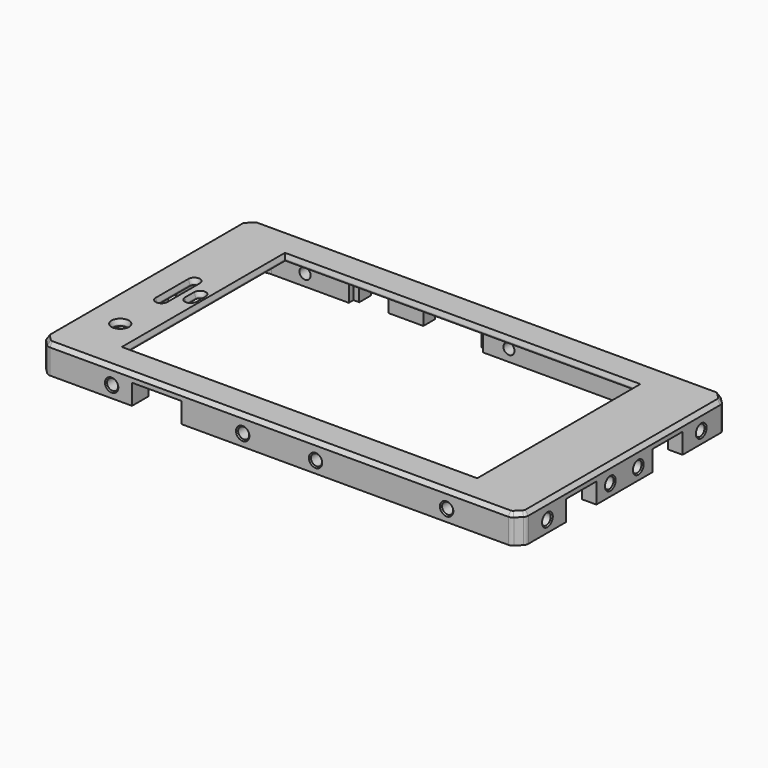
from build123d import *

# Parameters (mm, degrees)
SKETCH_W         = 165
SKETCH_H         = 90
PAD_DEPTH        = 10
SKETCH001_W      = 121
SKETCH001_H      = 69
POCKET_DEPTH     = 10.001
SKETCH002_W      = 155
SKETCH002_H      = 76
POCKET001_DEPTH  = 8
SKETCH003_R      = 2.5
POCKET002_DEPTH  = 10.001
SKETCH005_W      = 46
SKETCH005_H      = 5.5
POCKET003_DEPTH  = 8
SKETCH007_W      = 10
SKETCH007_H      = 7
SKETCH007_W_2    = 20
POCKET005_DEPTH  = 7
SKETCH008_W      = 13
SKETCH008_H      = 7
POCKET006_DEPTH  = 5
SKETCH009_W      = 17
SKETCH009_H      = 7
POCKET007_DEPTH  = 7
SKETCH010_W      = 8
SKETCH010_H      = 8
POCKET008_DEPTH  = 7
SKETCH015_R      = 1.9
POCKET010_DEPTH  = 8
FILLET004_R      = 8.5
CHAMFER003_SIZE  = 3
CHAMFER004_SIZE2 = 1.6
CHAMFER004_SIZE  = 0.5
FILLET005_R      = 2
CHAMFER005_SIZE2 = 1.5
CHAMFER005_SIZE  = 1
SKETCH026_R      = 1.9
POCKET018_DEPTH  = 165.001
SKETCH027_R      = 1.9
POCKET019_DEPTH  = 90.001
CHAMFER009_SIZE  = 0.4
CHAMFER027_SIZE  = 1


with BuildPart() as part:
    # Sketch → Pad (new body)
    with BuildSketch(Plane.XY):
        with Locations((77.5, 38)):
            Rectangle(SKETCH_W, SKETCH_H)
    extrude(amount=PAD_DEPTH)

    # Sketch001 (on DatumPlane) → Pocket (cut, through all)
    with BuildSketch(Plane.XY.offset(10)):
        with Locations((76.5, 38)):
            Rectangle(SKETCH001_W, SKETCH001_H)
    extrude(amount=-POCKET_DEPTH, mode=Mode.SUBTRACT)

    # Sketch002 (on DatumPlane) → Pocket001 (cut)
    with BuildSketch(Plane.XY):
        with Locations((77.5, 38)):
            Rectangle(SKETCH002_W, SKETCH002_H)
    extrude(amount=POCKET001_DEPTH, mode=Mode.SUBTRACT)

    # Sketch003 (on DatumPlane) → Pocket002 (cut, through all)
    with BuildSketch(Plane.XY.offset(10)):
        with Locations((6.75, 13.25)):
            Circle(SKETCH003_R)
        with BuildLine():
            ThreePointArc((8.25, 45), (6.75, 46.5), (5.25, 45))
            Line((5.25, 45), (5.25, 31))
            ThreePointArc((5.25, 31), (6.75, 29.5), (8.25, 31))
            Line((8.25, 45), (8.25, 31))
        make_face()
        with BuildLine():
            ThreePointArc((14.25, 40), (12.75, 41.5), (11.25, 40))
            Line((11.25, 40), (11.25, 36))
            ThreePointArc((11.25, 36), (12.75, 34.5), (14.25, 36))
            Line((14.25, 40), (14.25, 36))
        make_face()
    extrude(amount=-POCKET002_DEPTH, mode=Mode.SUBTRACT)

    # Sketch005 (on Face5 of Pocket002) → Pocket003 (cut)
    with BuildSketch(Plane.XY):
        with Locations((58, 75.25)):
            Rectangle(SKETCH005_W, SKETCH005_H)
    extrude(amount=POCKET003_DEPTH, mode=Mode.SUBTRACT)

    # Sketch007 (on DatumPlane) → Pocket005 (cut)
    with BuildSketch(Plane.XZ.offset(-83)):
        with Locations((42, 3.5)):
            Rectangle(SKETCH007_W, SKETCH007_H)
        with Locations((69, 3.5)):
            Rectangle(SKETCH007_W_2, SKETCH007_H)
    extrude(amount=POCKET005_DEPTH, mode=Mode.SUBTRACT)

    # Sketch008 (on DatumPlane) → Pocket006 (cut)
    with BuildSketch(Plane.YZ.offset(160)):
        with Locations((19.5, 3.5)):
            Rectangle(SKETCH008_W, SKETCH008_H)
        with Locations((56.5, 3.5)):
            Rectangle(SKETCH008_W, SKETCH008_H)
    extrude(amount=-POCKET006_DEPTH, mode=Mode.SUBTRACT)

    # Sketch009 (on DatumPlane) → Pocket007 (cut)
    with BuildSketch(Plane.XZ.offset(7)):
        with Locations((35.5, 3.5)):
            Rectangle(SKETCH009_W, SKETCH009_H)
    extrude(amount=-POCKET007_DEPTH, mode=Mode.SUBTRACT)

    # Sketch010 (on DatumPlane) → Pocket008 (cut)
    with BuildSketch(Plane.YZ.offset(-7)):
        with Locations((22, 4)):
            Rectangle(SKETCH010_W, SKETCH010_H)
    extrude(amount=POCKET008_DEPTH, mode=Mode.SUBTRACT)

    # Sketch015 (on DatumPlane) → Pocket010 (cut)
    with BuildSketch(Plane.XY):
        with Locations((0, -2)):
            Circle(SKETCH015_R)
        with Locations((0, 78)):
            Circle(SKETCH015_R)
        with Locations((155, 78)):
            Circle(SKETCH015_R)
        with Locations((155, -2)):
            Circle(SKETCH015_R)
    extrude(amount=POCKET010_DEPTH, mode=Mode.SUBTRACT)

    # Fillet004
    fillet004_edges = [part.edges().sort_by_distance(p)[0] for p in [
        (0, 0, 4),
        (0, 76, 4),
        (155, 0, 4),
        (155, 76, 4),
    ]]
    fillet(fillet004_edges, radius=FILLET004_R)

    # Chamfer003
    chamfer003_edges = [part.edges().sort_by_distance(p)[0] for p in [
        (-5, 83, 5),
        (-5, -7, 5),
        (160, -7, 5),
        (160, 83, 5),
    ]]
    chamfer(chamfer003_edges, length=CHAMFER003_SIZE)

    # Chamfer004
    chamfer004_edges = [part.edges().sort_by_distance(p)[0] for p in [
        (12.75, 34.5, 10),
        (14.25, 38, 10),
        (12.75, 41.5, 10),
        (11.25, 38, 10),
        (6.75, 46.5, 10),
        (5.25, 38, 10),
        (8.25, 38, 10),
        (6.75, 29.5, 10),
        (4.25, 13.25, 10),
        (16, 38, 10),
        (76.5, 3.5, 10),
        (137, 38, 10),
        (76.5, 72.5, 10),
    ]]
    chamfer004_side = part.faces().sort_by_distance((77.5, -5.120505, 10))[0]
    chamfer(chamfer004_edges, length=CHAMFER004_SIZE, length2=CHAMFER004_SIZE2, reference=chamfer004_side)

    # Fillet005
    fillet005_edges = [part.edges().sort_by_distance(p)[0] for p in [
        (-5, -4, 5),
        (-2, -7, 5),
        (-5, 80, 5),
        (-2, 83, 5),
        (157, -7, 5),
        (160, -4, 5),
        (160, 80, 5),
        (157, 83, 5),
    ]]
    fillet(fillet005_edges, radius=FILLET005_R)

    # Chamfer005
    chamfer005_edges = [part.edges().sort_by_distance(p)[0] for p in [
        (156.93694, -6.847759, 10),
        (158.5, -5.5, 10),
        (159.847759, -3.93694, 10),
        (160, 38, 10),
        (159.847759, 79.93694, 10),
        (158.5, 81.5, 10),
        (156.93694, 82.847759, 10),
        (77.5, 83, 10),
        (-1.93694, 82.847759, 10),
        (-3.5, 81.5, 10),
        (-4.847759, 79.93694, 10),
        (-5, 38, 10),
        (-4.847759, -3.93694, 10),
        (-3.5, -5.5, 10),
        (-1.93694, -6.847759, 10),
        (77.5, -7, 10),
    ]]
    chamfer005_side = part.faces().sort_by_distance((77.5, -5.120505, 10))[0]
    chamfer(chamfer005_edges, length=CHAMFER005_SIZE, length2=CHAMFER005_SIZE2, reference=chamfer005_side)

    # Sketch026 (on DatumPlane) → Pocket018 (cut, through all)
    with BuildSketch(Plane.YZ.offset(160)):
        with Locations((5, 4)):
            Circle(SKETCH026_R)
        with Locations((71, 4)):
            Circle(SKETCH026_R)
        with Locations((32, 4)):
            Circle(SKETCH026_R)
        with Locations((44, 4)):
            Circle(SKETCH026_R)
    extrude(amount=-POCKET018_DEPTH, mode=Mode.SUBTRACT)

    # Sketch027 (on DatumPlane) → Pocket019 (cut, through all)
    with BuildSketch(Plane.XZ.offset(7)):
        with Locations((20, 4)):
            Circle(SKETCH027_R)
        with Locations((135, 4)):
            Circle(SKETCH027_R)
        with Locations((90, 4)):
            Circle(SKETCH027_R)
        with Locations((65, 4)):
            Circle(SKETCH027_R)
    extrude(amount=-POCKET019_DEPTH, mode=Mode.SUBTRACT)

    # Chamfer009
    chamfer009_edges = [part.edges().sort_by_distance(p)[0] for p in [
        (133.1, 83, 4),
        (88.1, 83, 4),
        (18.1, 83, 4),
        (-5, 69.1, 4),
        (-5, 42.1, 4),
        (-5, 30.1, 4),
        (-5, 3.1, 4),
        (18.1, -7, 4),
        (63.1, -7, 4),
        (88.1, -7, 4),
        (133.1, -7, 4),
        (160, 3.1, 4),
        (160, 30.1, 4),
        (160, 42.1, 4),
        (160, 69.1, 4),
    ]]
    chamfer(chamfer009_edges, length=CHAMFER009_SIZE)

    # Chamfer027
    chamfer027_edges = [part.edges().sort_by_distance(p)[0] for p in [
        (-2.5, 26, 8),
        (-2.5, 18, 8),
    ]]
    chamfer(chamfer027_edges, length=CHAMFER027_SIZE)


solid = part.part
